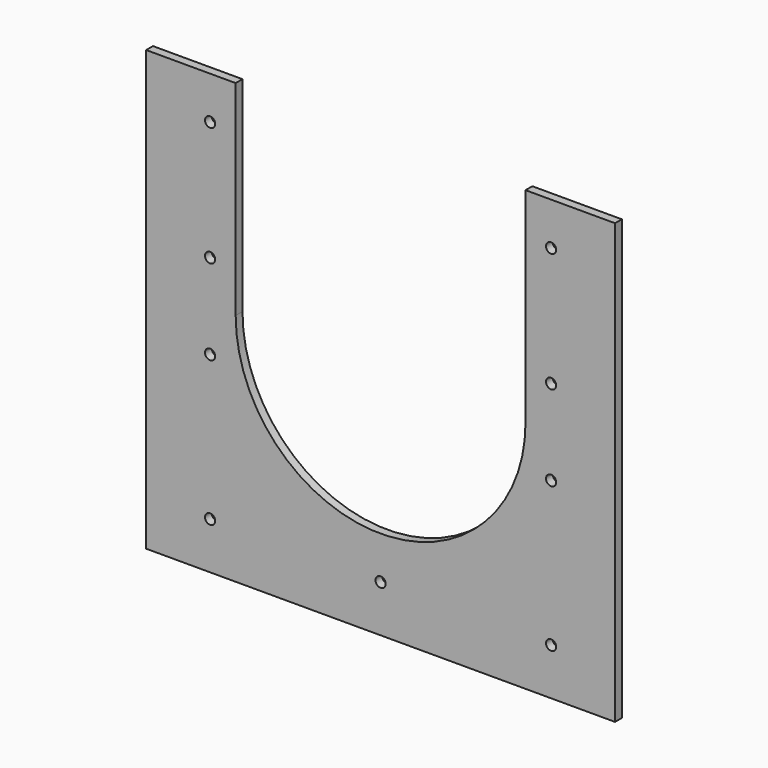
from build123d import *

# Parameters (mm, degrees)
SKETCH005_R      = 6
EXTRUDE004_DEPTH = 1000
EXTRUDE003_DEPTH = 1000
SKETCH003_W      = 550
SKETCH003_H      = 10
EXTRUDE002_DEPTH = 515


with BuildPart() as extrude004:
    # Sketch005 → Extrude004 (new body)
    with BuildSketch(Plane.XZ.offset(2500)):
        with Locations((-200, 1730)):
            Circle(SKETCH005_R)
        with Locations((-200, 1870)):
            Circle(SKETCH005_R)
        with Locations((200, 1870)):
            Circle(SKETCH005_R)
        with Locations((200, 1730)):
            Circle(SKETCH005_R)
        with Locations((-200, 1630)):
            Circle(SKETCH005_R)
        with Locations((-200, 1460)):
            Circle(SKETCH005_R)
        with Locations((200, 1630)):
            Circle(SKETCH005_R)
        with Locations((200, 1460)):
            Circle(SKETCH005_R)
        with Locations((0, 1460)):
            Circle(SKETCH005_R)
    extrude(amount=-EXTRUDE004_DEPTH)


with BuildPart() as extrude003:
    # Sketch004 → Extrude003 (new body)
    with BuildSketch(Plane.XZ.offset(2500)):
        with BuildLine():
            Line((-170, 1920), (-170, 1680))
            ThreePointArc((-170, 1680), (-4.8e-05, 1510), (170, 1679.999905))
            Line((170, 1679.999905), (170, 1920))
            Line((170, 1920), (-170, 1920))
        make_face()
    extrude(amount=-EXTRUDE003_DEPTH)


with BuildPart() as cut002:
    # Sketch003 → Extrude002 (new body)
    with BuildSketch(Plane.XY.offset(1405)):
        with Locations((0, -1570.580576)):
            Rectangle(SKETCH003_W, SKETCH003_H)
    extrude(amount=EXTRUDE002_DEPTH)

    # Cut001: cut Extrude003
    add(extrude003.part, mode=Mode.SUBTRACT)

    # Cut002: cut Extrude004
    add(extrude004.part, mode=Mode.SUBTRACT)


solid = cut002.part
